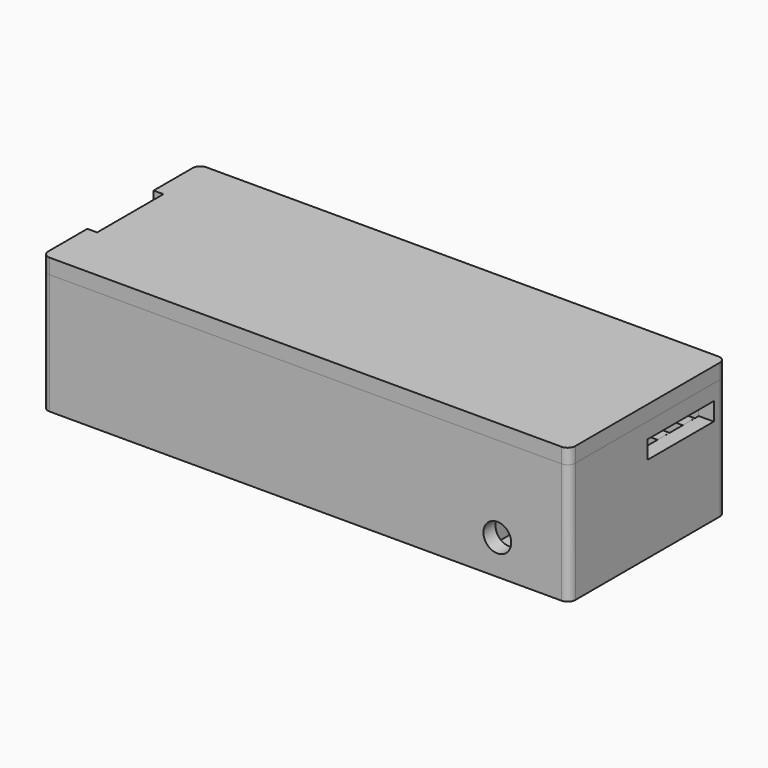
from build123d import *

# Parameters (mm, degrees)
PAD_DEPTH       = 16
SKETCH001_W     = 66
SKETCH001_H     = 22
POCKET_DEPTH    = 9
SKETCH002_W     = 50.35
SKETCH002_H     = 19.2
POCKET001_DEPTH = 6
SKETCH003_W     = 11
SKETCH003_H     = 8.6
POCKET002_DEPTH = 1.3
SKETCH004_W     = 7
SKETCH004_H     = 3.2
POCKET003_DEPTH = 1
SKETCH007_W     = 67.6
SKETCH007_H     = 23.6
POCKET004_DEPTH = 1
SKETCH011_W     = 6.2
SKETCH011_H     = 7
POCKET008_DEPTH = 4.5
SKETCH012_R     = 1.85
POCKET009_DEPTH = 2.1
SKETCH013_W     = 11
SKETCH013_H     = 2.4
POCKET010_DEPTH = 2.1
SKETCH014_W     = 8
SKETCH014_H     = 2
PAD003_DEPTH    = 5.52
PAD001_DEPTH    = 2
SKETCH006_W     = 67.4
SKETCH006_H     = 23.4
PAD002_DEPTH    = 1
SKETCH008_W     = 10.999998
SKETCH008_H     = 3.000001
POCKET005_DEPTH = 1.3
SKETCH009_W     = 10
SKETCH009_H     = 7
POCKET006_DEPTH = 1.3
SKETCH010_W     = 65
SKETCH010_H     = 21
POCKET007_DEPTH = 1.5


with BuildPart() as body:
    # Sketch → Pad (new body)
    with BuildSketch(Plane.XY):
        with BuildLine():
            Line((-33.9999998076, 12.9999934698), (34.0000001924, 12.9999934698))
            ThreePointArc((35.0000001924, 11.9999934698), (34.7071069735, 12.707100251), (34.0000001924, 12.9999934698))
            Line((35.0000001924, 11.9999934698), (35.0000001924, -12.0000065302))
            ThreePointArc((34.0000001924, -13.0000065302), (34.7071069735, -12.7071133114), (35.0000001924, -12.0000065302))
            Line((34.0000001924, -13.0000065302), (-33.9999998076, -13.0000065302))
            ThreePointArc((-34.9999998076, -12.0000065302), (-34.7071065888, -12.7071133114), (-33.9999998076, -13.0000065302))
            Line((-34.9999998076, -12.0000065302), (-34.9999998076, 11.9999934698))
            ThreePointArc((-33.9999998076, 12.9999934698), (-34.7071065888, 12.707100251), (-34.9999998076, 11.9999934698))
        make_face()
    extrude(amount=PAD_DEPTH)

    # Sketch001 → Pocket (cut)
    with BuildSketch(Plane.XY.offset(6)):
        with Locations((-0.000412, 0)):
            Rectangle(SKETCH001_W, SKETCH001_H)
    extrude(amount=POCKET_DEPTH, mode=Mode.SUBTRACT)

    # Sketch002 → Pocket001 (cut)
    with BuildSketch(Plane.XY):
        with Locations((-7.8254111247, 2.875e-07)):
            Rectangle(SKETCH002_W, SKETCH002_H)
    extrude(amount=POCKET001_DEPTH, mode=Mode.SUBTRACT)

    # Sketch003 → Pocket002 (cut)
    with BuildSketch(Plane.YZ.offset(-35)):
        with Locations((-3.237e-07, 13.3)):
            Rectangle(SKETCH003_W, SKETCH003_H)
    extrude(amount=POCKET002_DEPTH, mode=Mode.SUBTRACT)

    # Sketch004 → Pocket003 (cut)
    with BuildSketch(Plane(origin=(-33.7, 0, 0), x_dir=(0, -1, 0), z_dir=(-1, 0, 0))):
        with Locations((2.875e-07, 13.4)):
            Rectangle(SKETCH004_W, SKETCH004_H)
    extrude(amount=-POCKET003_DEPTH, mode=Mode.SUBTRACT)

    # Sketch007 (on Face5 of Pocket003) → Pocket004 (cut)
    with BuildSketch(Plane.XY.offset(16)):
        with Locations((4.937e-07, 5.063e-07)):
            Rectangle(SKETCH007_W, SKETCH007_H)
    extrude(amount=-POCKET004_DEPTH, mode=Mode.SUBTRACT)

    # Sketch011 (on Face23 of Pocket004) → Pocket008 (cut)
    with BuildSketch(Plane.XY.offset(6)):
        with Locations((25.451729103, -7.5000004246)):
            Rectangle(SKETCH011_W, SKETCH011_H)
    extrude(amount=-POCKET008_DEPTH, mode=Mode.SUBTRACT)

    # Sketch012 (on Face36 of Pocket008) → Pocket009 (cut)
    with BuildSketch(Plane(origin=(0, -11.0000004246, 0), x_dir=(-1, 0, 0), z_dir=(0, 1, 0))):
        with Locations((-25.451651, 4.609303)):
            Circle(SKETCH012_R)
    extrude(amount=-POCKET009_DEPTH, mode=Mode.SUBTRACT)

    # Sketch013 (on Face30 of Pocket009) → Pocket010 (cut)
    with BuildSketch(Plane(origin=(32.999588, 0, 0), x_dir=(0, -1, 0), z_dir=(-1, 0, 0))):
        with Locations((-5.4999997125, 12.7152388155)):
            Rectangle(SKETCH013_W, SKETCH013_H)
    extrude(amount=-POCKET010_DEPTH, mode=Mode.SUBTRACT)

    # Sketch014 (on Face28 of Pocket010) → Pad003 (join)
    with BuildSketch(Plane.XY.offset(6)):
        with Locations((28.9995880772, 9.3428830657)):
            Rectangle(SKETCH014_W, SKETCH014_H)
        with Locations((28.999588, 1.0813236831)):
            Rectangle(SKETCH014_W, SKETCH014_H)
        with Locations((28.999587609, 5.1552923249)):
            Rectangle(SKETCH014_W, SKETCH014_H)
    extrude(amount=PAD003_DEPTH)


with BuildPart() as cap:
    # Sketch005 → Pad001 (new body)
    with BuildSketch(Plane.XY.offset(16)):
        with BuildLine():
            Line((-34.0000002031, 12.9999934769), (33.9999997969, 12.9999934769))
            ThreePointArc((34.9999997969, 11.9999934769), (34.7071065781, 12.7071002581), (33.9999997969, 12.9999934769))
            Line((34.9999997969, 11.9999934769), (34.9999997969, -12.0000065231))
            ThreePointArc((33.9999997969, -13.0000065231), (34.7071065781, -12.7071133043), (34.9999997969, -12.0000065231))
            Line((33.9999997969, -13.0000065231), (-34.0000002031, -13.0000065231))
            ThreePointArc((-35.0000002031, -12.0000065231), (-34.7071069843, -12.7071133043), (-34.0000002031, -13.0000065231))
            Line((-35.0000002031, -12.0000065231), (-35.0000002031, 11.9999934769))
            ThreePointArc((-34.0000002031, 12.9999934769), (-34.7071069843, 12.7071002581), (-35.0000002031, 11.9999934769))
        make_face()
    extrude(amount=PAD001_DEPTH)

    # Sketch006 → Pad002 (join)
    with BuildSketch(Plane.XY.offset(16)):
        with Locations((-2.17e-08, 1.7722e-06)):
            Rectangle(SKETCH006_W, SKETCH006_H)
    extrude(amount=-PAD002_DEPTH)

    # Sketch008 → Pocket005 (cut)
    with BuildSketch(Plane.YZ.offset(-35)):
        with Locations((6e-06, 16.5000055)):
            Rectangle(SKETCH008_W, SKETCH008_H)
    extrude(amount=POCKET005_DEPTH, mode=Mode.SUBTRACT)

    # Sketch009 (on Face20 of Pocket005) → Pocket006 (cut)
    with BuildSketch(Plane(origin=(0, 0, 15), x_dir=(1, 0, 0), z_dir=(0, 0, -1))):
        with Locations((-28.7000033219, 1.031e-07)):
            Rectangle(SKETCH009_W, SKETCH009_H)
    extrude(amount=-POCKET006_DEPTH, mode=Mode.SUBTRACT)

    # Sketch010 (on Face22 of Pocket006) → Pocket007 (cut)
    with BuildSketch(Plane(origin=(0, 0, 15), x_dir=(1, 0, 0), z_dir=(0, 0, -1))):
        with Locations((-4.249e-07, -2.875e-07)):
            Rectangle(SKETCH010_W, SKETCH010_H)
    extrude(amount=-POCKET007_DEPTH, mode=Mode.SUBTRACT)


solid = Compound([body.part, cap.part])
